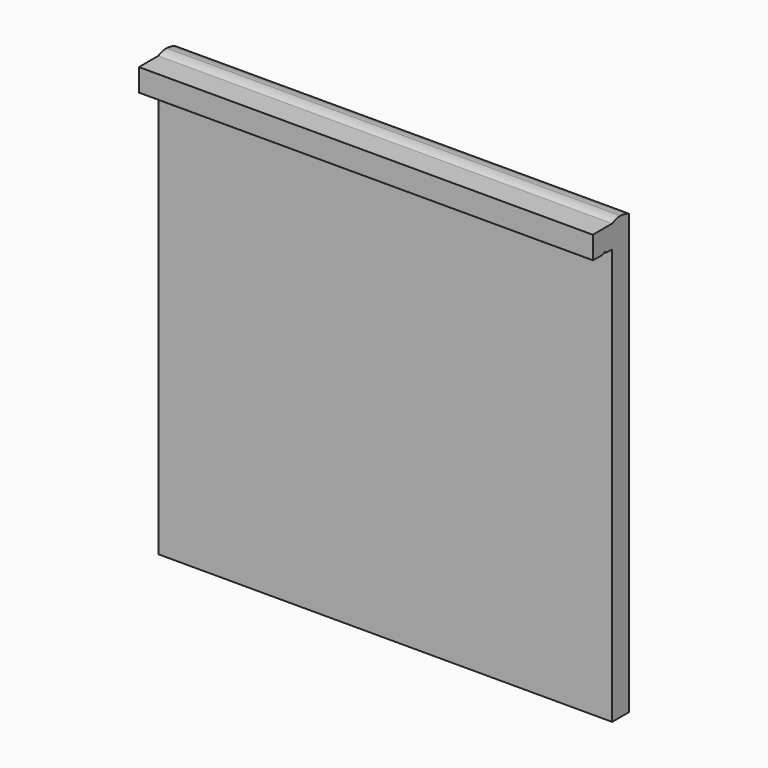
from build123d import *

# Parameters (mm, degrees)
F1_DEPTH = 300


with BuildPart() as f1:
    # F0 (on Right) → F1 (new body)
    with BuildSketch(Plane.YZ):
        with BuildLine():
            Line((0, 74.823916), (0, -200.176084))
            Line((0, -200.176084), (14, -200.176084))
            Line((14, -200.176084), (14, 89.823916))
            ThreePointArc((14, 89.823916), (10.494017, 91.059197), (6.811202, 91.563888))
            ThreePointArc((6.811202, 91.563888), (3.301814, 91.100181), (0, 89.823916))
            Line((0, 89.823916), (-15.95, 89.823916))
            ThreePointArc((-15.95, 89.823916), (-15.985355, 89.809271), (-16, 89.773916))
            Line((-16, 89.773916), (-16, 75.077916))
            ThreePointArc((-16, 75.077916), (-15.925605, 74.898311), (-15.746, 74.823916))
            Line((-15.746, 74.823916), (-7.697735, 74.823916))
            Line((-7.697735, 74.823916), (-5.742204, 75.940702))
            Line((-5.742204, 75.940702), (-5.104417, 74.823916))
            Line((-5.104417, 74.823916), (0, 74.823916))
        make_face()
    extrude(amount=F1_DEPTH)


solid = f1.part
